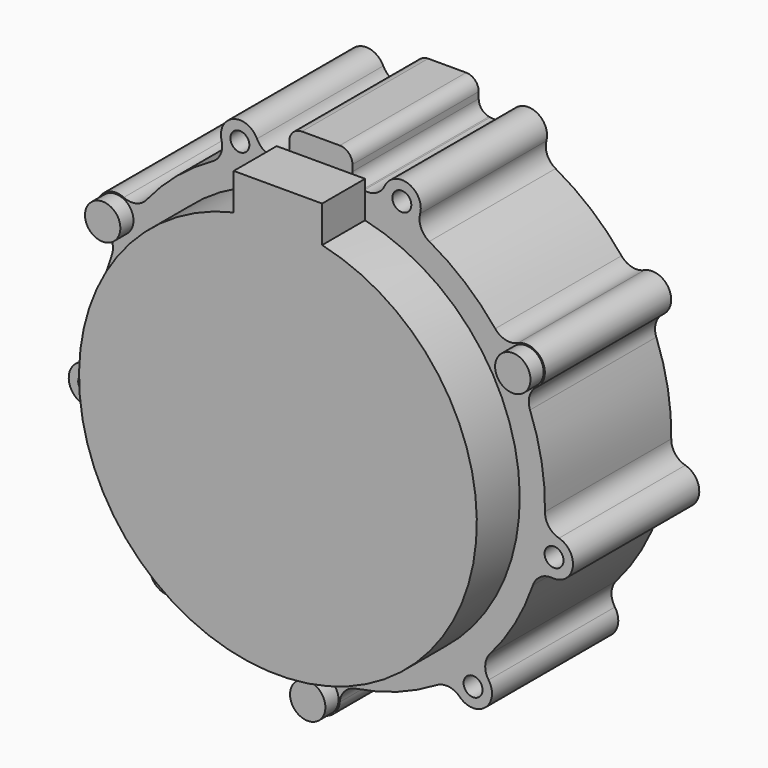
from build123d import *

# Parameters (mm, degrees)
SKETCH009_R             = 16.5
SKETCH009_R_2           = 2
PAD006_DEPTH            = 3
SKETCH010_R             = 1.5
PAD007_DEPTH            = 25
POLARPATTERN_COUNT      = 9
PAD008_DEPTH            = 25
SKETCH012_R             = 21.5
SKETCH012_R_2           = 18.7
SKETCH012_R_3           = 2.1
PAD009_DEPTH            = 2
PAD010_DEPTH            = 8.5
SKETCH014_R             = 2.8
PAD011_DEPTH            = 2.6
BODY004_PLACEMENT_ANGLE = 90


with BuildPart() as part:
    # Sketch009 → Pad006 (new body)
    with BuildSketch(Plane.YZ):
        Circle(SKETCH009_R)
        with Locations((0, 12)):
            Circle(SKETCH009_R_2, mode=Mode.SUBTRACT)
        with Locations((-6, 10.392305)):
            Circle(SKETCH009_R_2, mode=Mode.SUBTRACT)
        with Locations((6, 10.392305)):
            Circle(SKETCH009_R_2, mode=Mode.SUBTRACT)
        with Locations((12, 0)):
            Circle(SKETCH009_R_2, mode=Mode.SUBTRACT)
        with Locations((10.392305, -6)):
            Circle(SKETCH009_R_2, mode=Mode.SUBTRACT)
        with Locations((6, -10.392305)):
            Circle(SKETCH009_R_2, mode=Mode.SUBTRACT)
        with Locations((-6, -10.392305)):
            Circle(SKETCH009_R_2, mode=Mode.SUBTRACT)
        with Locations((-10.392305, -6)):
            Circle(SKETCH009_R_2, mode=Mode.SUBTRACT)
        with Locations((-12, 0)):
            Circle(SKETCH009_R_2, mode=Mode.SUBTRACT)
    extrude(amount=PAD006_DEPTH)

    # Sketch010 → Pad007 (join)
    with BuildSketch(Plane.YZ):
        with BuildLine():
            ThreePointArc((5.510568, -35.069697), (0, 35.5), (-5.510568, -35.069697))
            ThreePointArc((-2.988125, -37.766667), (-3.785221, -35.984091), (-5.510568, -35.069697))
            ThreePointArc((-2.988125, -37.766667), (0, -40.5), (2.988125, -37.766667))
            ThreePointArc((5.510568, -35.069697), (3.785221, -35.984091), (2.988125, -37.766667))
        make_face()
        with Locations((0, -37.5)):
            Circle(SKETCH010_R, mode=Mode.SUBTRACT)
    pad007 = extrude(amount=-PAD007_DEPTH)

    # PolarPattern: Pad007 ×9 about axis
    polarpattern_axis = Axis((0, 0, 0), (1, 0, 0))
    for i in range(1, POLARPATTERN_COUNT):
        add(pad007.rotate(polarpattern_axis, i * 360 / POLARPATTERN_COUNT))

    # Sketch011 → Pad008 (join)
    with BuildSketch(Plane.YZ):
        with BuildLine():
            ThreePointArc((-6.626667, 34.876027), (-5.459437, 35.565466), (-5, 36.840874))
            Line((-5, 37.840874), (-5, 36.840874))
            ThreePointArc((-3, 39.840874), (-4.414214, 39.255088), (-5, 37.840874))
            Line((-3, 39.840874), (3, 39.840874))
            ThreePointArc((5, 37.840874), (4.414214, 39.255088), (3, 39.840874))
            Line((5, 37.840874), (5, 36.840874))
            ThreePointArc((5, 36.840874), (5.459437, 35.565466), (6.626667, 34.876027))
            ThreePointArc((6.626667, 34.876027), (0, 35.5), (-6.626667, 34.876027))
        make_face()
    extrude(amount=-PAD008_DEPTH)

    # Sketch012 → Pad009 (join)
    with BuildSketch(Plane.YZ):
        Circle(SKETCH012_R)
        Circle(SKETCH012_R_2, mode=Mode.SUBTRACT)
        with Locations((0, 29)):
            Circle(SKETCH012_R_3)
    extrude(amount=PAD009_DEPTH)

    # Sketch013 → Pad010 (join)
    with BuildSketch(Plane.YZ.offset(-25)):
        with BuildLine():
            ThreePointArc((-7, 30.712375), (0, -31.5), (7, 30.712375))
            Line((7, 36.5), (7, 30.712375))
            Line((-7, 36.5), (7, 36.5))
            Line((-7, 30.712375), (-7, 36.5))
        make_face()
    extrude(amount=-PAD010_DEPTH)

    # Sketch014 → Pad011 (join)
    with BuildSketch(Plane.YZ.offset(-25)):
        with Locations((0, -37.5)):
            Circle(SKETCH014_R)
        with Locations((32.475953, 18.75)):
            Circle(SKETCH014_R)
        with Locations((-32.475953, 18.75)):
            Circle(SKETCH014_R)
    extrude(amount=-PAD011_DEPTH)


with BuildPart() as part_1:
    # Body004 placement: moved
    add(part.part.moved(Location((-77.6, -10, 40))).rotate(Axis((-77.6, -10, 40), (0, 0, 1)), BODY004_PLACEMENT_ANGLE))


solid = part_1.part
